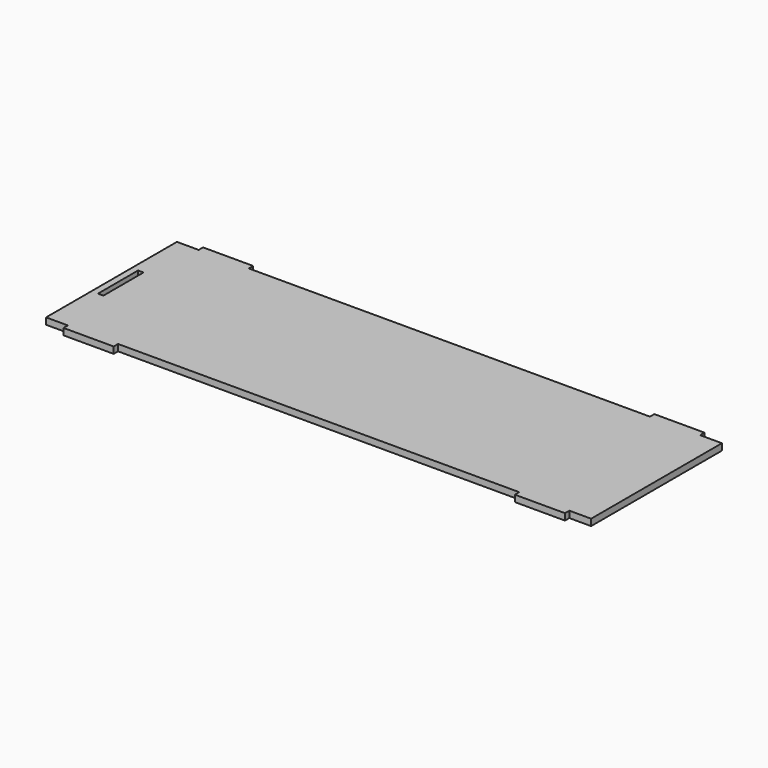
from build123d import *

# Parameters (mm, degrees)
F0_W     = 2.5
F0_H     = 23
F0_W_2   = 23
F0_H_2   = 2.5
F1_DEPTH = 3


with BuildPart() as f1:
    # F0 (on Top) → F1 (new body)
    with BuildSketch(Plane.XY):
        Polygon((-112.64636, -2.5), (-112.64636, -77.5), (-102.64636, -77.5), (-79.64636, -77.5), (104.35364, -77.5), (127.35364, -77.5), (137.35364, -77.5), (137.35364, -2.5), (127.35364, -2.5), (104.35364, -2.5), (-79.64636, -2.5), (-102.64636, -2.5), align=None)
        with Locations((-108.39636, -40)):
            Rectangle(F0_W, F0_H, mode=Mode.SUBTRACT)
        with Locations((-91.14636, -78.75)):
            Rectangle(F0_W_2, F0_H_2)
        with Locations((-91.14636, -1.25)):
            Rectangle(F0_W_2, F0_H_2)
        with Locations((115.85364, -78.75)):
            Rectangle(F0_W_2, F0_H_2)
        with Locations((115.85364, -1.25)):
            Rectangle(F0_W_2, F0_H_2)
    extrude(amount=F1_DEPTH)


solid = f1.part
